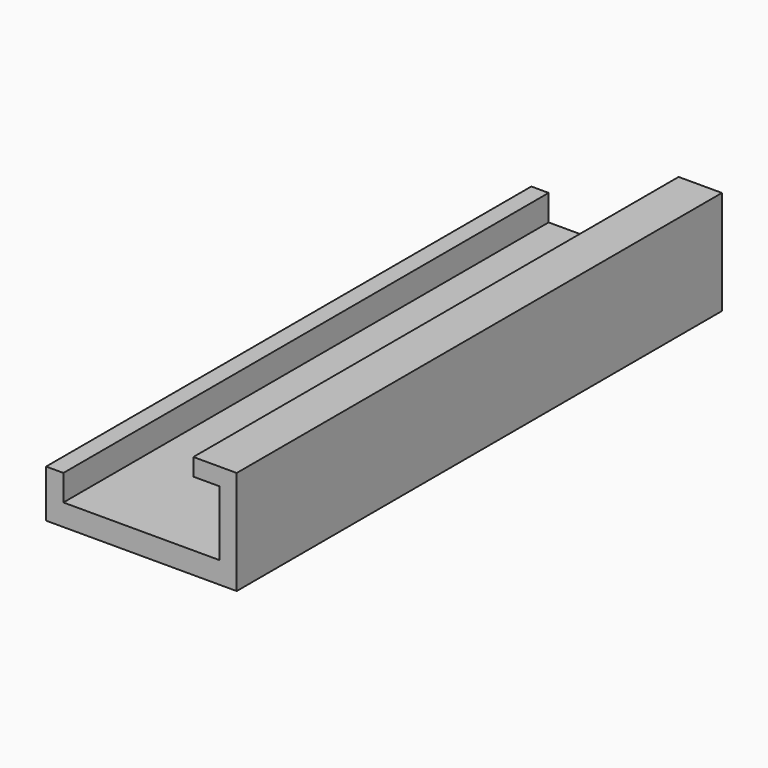
from build123d import *

# Parameters (mm, degrees)
F0_W     = 22
F0_H     = 70
F1_DEPTH = 2.5
F2_W     = 2
F2_H     = 70
F3_DEPTH = 3
F4_DEPTH = 9.5
F5_W     = 70
F5_H     = 2
F6_DEPTH = 3


with BuildPart() as f1:
    # F0 (on Top) → F1 (new body)
    with BuildSketch(Plane.XY):
        with Locations((-3.216149, -10.944109)):
            Rectangle(F0_W, F0_H)
    extrude(amount=F1_DEPTH)

    # F2 (on face) → F3 (join)
    with BuildSketch(Plane.XY.offset(2.5)):
        with Locations((-13.216149, -10.944109)):
            Rectangle(F2_W, F2_H)
    extrude(amount=F3_DEPTH)

    # F2 (on face) → F4 (join)
    with BuildSketch(Plane.XY.offset(2.5)):
        with Locations((6.783851, -10.944109)):
            Rectangle(F2_W, F2_H)
    extrude(amount=F4_DEPTH)

    # F5 (on face) → F6 (join)
    with BuildSketch(Plane(origin=(5.783851, 0, 0), x_dir=(0, -1, 0), z_dir=(-1, 0, 0))):
        with Locations((10.944109, 11)):
            Rectangle(F5_W, F5_H)
    extrude(amount=F6_DEPTH)


solid = f1.part
